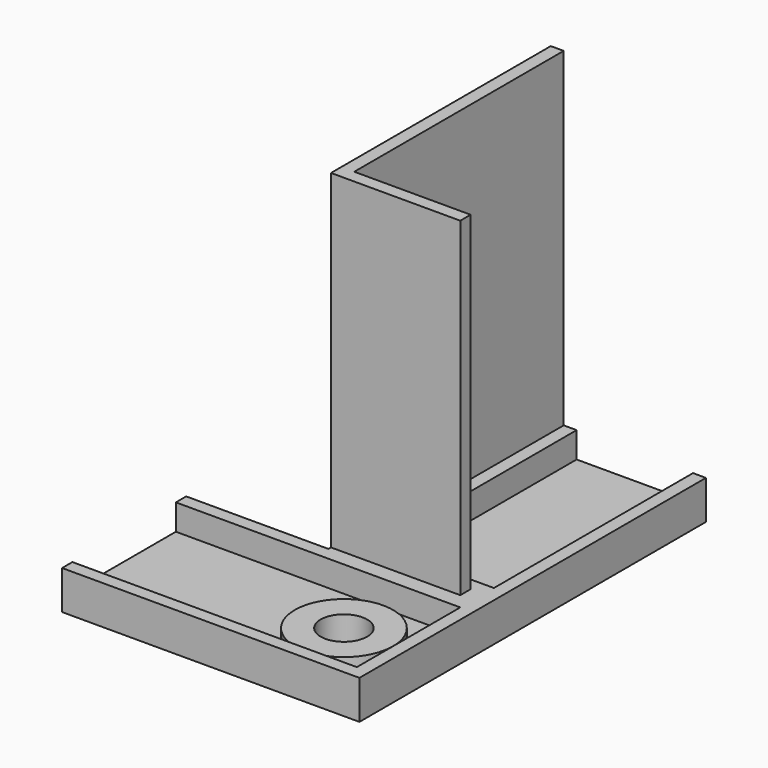
from build123d import *

# Parameters (mm, degrees)
SKETCH006_R      = 1.8
EXTRUDE004_DEPTH = 1
EXTRUDE005_DEPTH = 2
SKETCH017_R      = 3.8
SKETCH017_R_2    = 1.8
EXTRUDE014_DEPTH = 1
EXTRUDE003_DEPTH = 27.5


with BuildPart() as extrude004:
    # Sketch006 → Extrude004 (new body)
    with BuildSketch(Plane.XY.offset(10)):
        Polygon((-11, 0), (0, 0), (0, 12), (-23, 12), (-23, -21.5), (-11, -21.5), align=None)
        with Locations((-17, 6)):
            Circle(SKETCH006_R, mode=Mode.SUBTRACT)
    extrude(amount=EXTRUDE004_DEPTH)


with BuildPart() as extrude004_1:
    # Extrude004 placement: moved
    add(extrude004.part.moved(Location((0, 0, -36.5))))


with BuildPart() as extrude005:
    # Sketch007 → Extrude005 (new body)
    with BuildSketch(Plane.XY.offset(10)):
        Polygon((0, 12), (-23, 12), (-23, -21.5), (-22, -21.5), (-22, -2.25), (-13, -2.25), (-13, -21.5), (-11, -21.5), (-11, 0), (0, 0), (0, 1), (-22, 1), (-22, 11), (0, 11), align=None)
    extrude(amount=EXTRUDE005_DEPTH)


with BuildPart() as extrude005_1:
    # Extrude005 placement: moved
    add(extrude005.part.moved(Location((0, 0, -35.5))))


with BuildPart() as extrude014:
    # Sketch017 → Extrude014 (new body)
    with BuildSketch(Plane.XY.offset(10)):
        with Locations((-17, 6)):
            Circle(SKETCH017_R)
        with Locations((-17, 6)):
            Circle(SKETCH017_R_2, mode=Mode.SUBTRACT)
    extrude(amount=EXTRUDE014_DEPTH)


with BuildPart() as extrude014_1:
    # Extrude014 placement: moved
    add(extrude014.part.moved(Location((0, 0, -35.5))))


with BuildPart() as body004:
    # Sketch003 → Extrude003 (new body)
    with BuildSketch(Plane.XY):
        Polygon((-21, -0.25), (-11, -0.25), (-11, -21.5), (-12, -21.5), (-12, -1.25), (-21, -1.25), align=None)
    extrude(amount=-EXTRUDE003_DEPTH)


with BuildPart() as body004_1:
    # Extrude003 placement: moved
    add(body004.part.moved(Location((0, 0, 2))))

    # Fusion013: union Extrude004, Extrude005, Extrude014
    add(extrude004_1.part)
    add(extrude005_1.part)
    add(extrude014_1.part)


with BuildPart() as body005:
    # Part__Mirroring005: instance of Body004
    add(body004_1.part.mirror(Plane(origin=(0, 0, 0), x_dir=(0, -1, 0), z_dir=(1, 0, 0))))


with BuildPart() as part_mirroring006:
    # Part__Mirroring006: instance of Body005
    add(body005.part.mirror(Plane(origin=(0, -21.5, 0), x_dir=(1, 0, 0), z_dir=(0, 1, 0))))


solid = part_mirroring006.part
